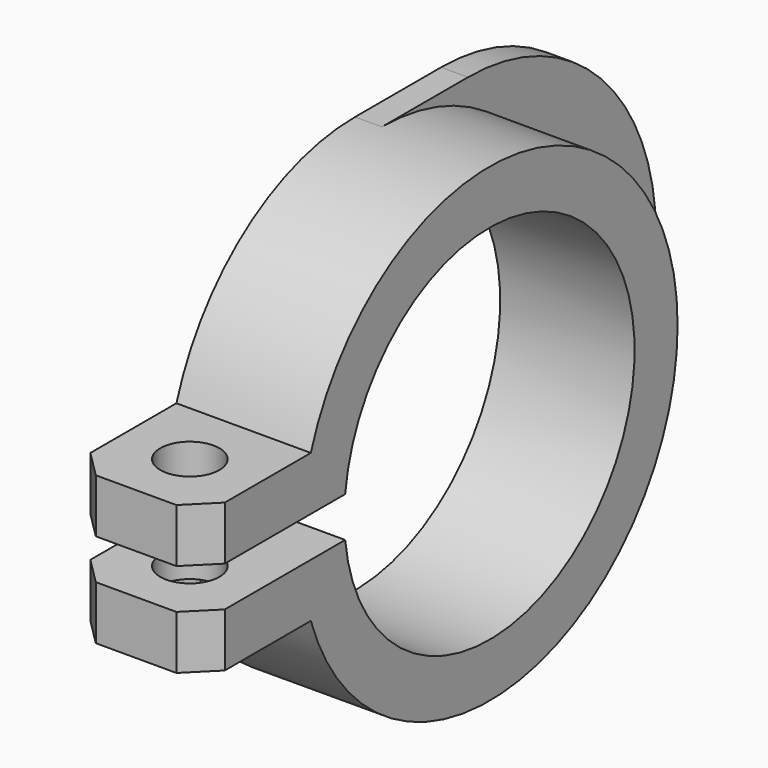
from build123d import *

# Parameters (mm, degrees)
PAD010_DEPTH    = 10
POCKET004_DEPTH = 2
SKETCH021_R     = 2.2
POCKET005_DEPTH = 23.001
CHAMFER004_SIZE = 2
PAD016_DEPTH    = 2


with BuildPart() as part:
    # Sketch019 → Pad010 (new body)
    with BuildSketch(Plane.YZ):
        with BuildLine():
            ThreePointArc((-13.416408, -1.5), (13.5, 0), (-13.416408, 1.5))
            Line((-13.416408, 1.5), (-26.613248, 1.5))
            Line((-26.613248, 5.5), (-26.613248, 1.5))
            Line((-16.613248, 5.5), (-26.613248, 5.5))
            ThreePointArc((-16.613248, -5.5), (17.5, 0), (-16.613248, 5.5))
            Line((-16.613248, -5.5), (-26.613248, -5.5))
            Line((-26.613248, -1.5), (-26.613248, -5.5))
            Line((-13.416408, -1.5), (-26.613248, -1.5))
        make_face()
    extrude(amount=PAD010_DEPTH)

    # Sketch020 (on DatumPlane) → Pocket004 (cut)
    with BuildSketch(Plane.XY.offset(-5.5)):
        Polygon((7.049593, -25.163248), (9.099187, -21.613248), (7.049593, -18.063248), (2.950407, -18.063248), (0.900813, -21.613248), (2.950407, -25.163248), align=None)
    extrude(amount=POCKET004_DEPTH, mode=Mode.SUBTRACT)

    # Sketch021 (on DatumPlane) → Pocket005 (cut, through all)
    with BuildSketch(Plane.XY.offset(5.5)):
        with Locations((5, -21.613248)):
            Circle(SKETCH021_R)
    extrude(amount=-POCKET005_DEPTH, mode=Mode.SUBTRACT)

    # Chamfer004
    chamfer004_edges = [part.edges().sort_by_distance(p)[0] for p in [
        (10, -26.613248, 3.5),
        (10, -26.613248, -3.5),
        (0, -26.613248, 3.5),
        (0, -26.613248, -3.5),
    ]]
    chamfer(chamfer004_edges, length=CHAMFER004_SIZE)

    # Sketch028 → Pad016 (join)
    with BuildSketch(Plane.YZ):
        with BuildLine():
            ThreePointArc((8, -17.5), (25.5, 0), (8, 17.5))
            Line((0, 17.5), (8, 17.5))
            ThreePointArc((0, -17.5), (17.5, 0), (0, 17.5))
            Line((0, -17.5), (8, -17.5))
        make_face()
    extrude(amount=PAD016_DEPTH)


solid = part.part
